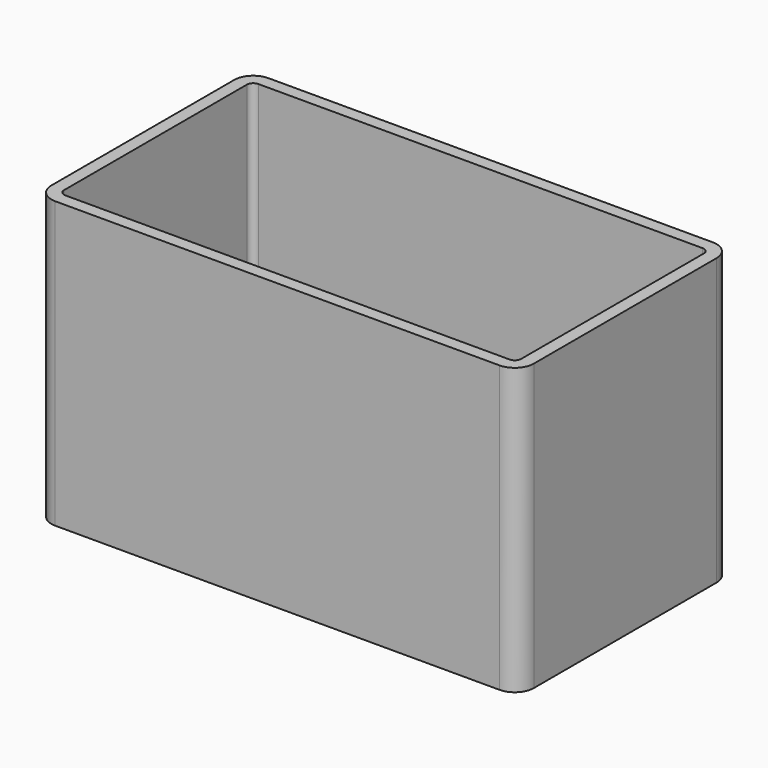
from build123d import *

# Parameters (mm, degrees)
F0_W     = 76
F0_H     = 42
F1_DEPTH = 45
F2_R     = 3
F3_T     = -2
F4_R     = 12.11184
F5_DEPTH = 25


with BuildPart() as f1:
    # F0 (on Top) → F1 (new body)
    with BuildSketch(Plane.XY):
        with Locations((7.606018, -2.175814)):
            Rectangle(F0_W, F0_H)
    extrude(amount=F1_DEPTH)

    # F2
    f2_edges = [f1.edges().sort_by_distance(p)[0] for p in [
        (-30.393982, -23.175814, 22.5),
        (-30.393982, 18.824186, 22.5),
        (45.606018, -23.175814, 22.5),
        (45.606018, 18.824186, 22.5),
    ]]
    fillet(f2_edges, radius=F2_R)

    # F3
    f3_openings = [f1.faces().sort_by_distance(p)[0] for p in [
        (7.606018, -2.175814, 45),
    ]]
    offset(amount=F3_T, openings=f3_openings)

    # F4 (on face) → F5 (cut)
    with BuildSketch(Plane.XY.offset(2)):
        with Locations((7.606018, -2.175814)):
            Circle(F4_R)
    extrude(amount=-F5_DEPTH, mode=Mode.SUBTRACT)


solid = f1.part
